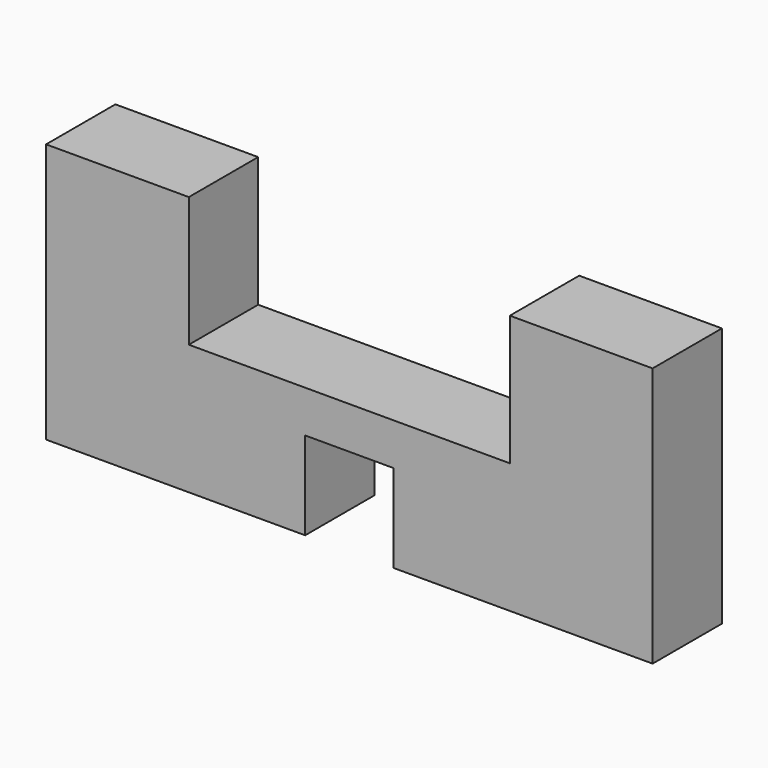
from build123d import *

# Parameters (mm, degrees)
F1_DEPTH = 25.4
F2_W     = 25.9
F2_H     = 25.778546
F3_DEPTH = 4
F4_DEPTH = 25.401


with BuildPart() as f1:
    # F0 (on Front) → F1 (new body)
    with BuildSketch(Plane.XZ):
        Polygon((-47.05, 25.021454), (-88.9, 25.021454), (-88.9, -30.673691), (-88.9, -51.178546), (-41.565981, -51.178546), (0, -51.178546), (88.9, -51.178546), (88.9, 25.021454), (47.05, 25.021454), (47.05, -13.078546), (0, -13.078546), (-47.05, -13.078546), align=None)
    extrude(amount=F1_DEPTH)

    # F2 (on Front) → F3 (cut)
    with BuildSketch(Plane.XZ):
        with Locations((0, -38.289273)):
            Rectangle(F2_W, F2_H)
    extrude(amount=F3_DEPTH, mode=Mode.SUBTRACT)

    # F2 (on Front) → F4 (cut, through all)
    with BuildSketch(Plane.XZ):
        with Locations((0, -38.289273)):
            Rectangle(F2_W, F2_H)
    extrude(amount=F4_DEPTH, mode=Mode.SUBTRACT)


solid = f1.part
